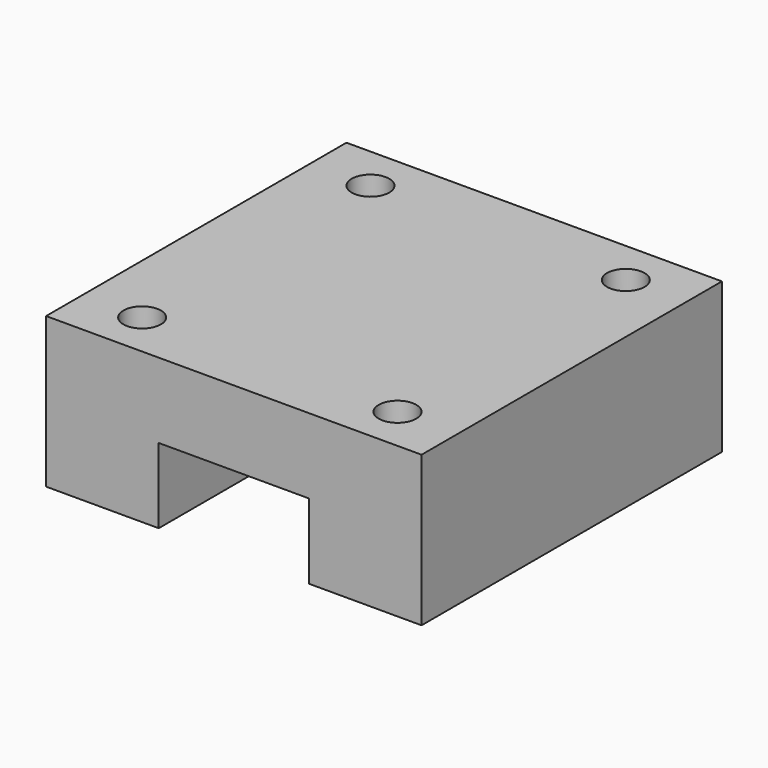
from build123d import *

# Parameters (mm, degrees)
F1_DEPTH = 25
F3_D     = 2.5
F3_DEPTH = 5
F3_TIP   = 0.7510757738


with BuildPart() as f1:
    # F0 (on Front) → F1 (new body)
    with BuildSketch(Plane.XZ):
        Polygon((-5, 0), (0, 0), (5, 0), (5, -5), (12.5, -5), (12.5, 5), (0, 5), (-12.5, 5), (-12.5, -5), (-5, -5), align=None)
    extrude(amount=F1_DEPTH)

    # F3
    with Locations(Plane.XY.offset(5)):
        with Locations((-8.5, -3), (8.5, -3), (-8.5, -22), (8.5, -22)):
            Hole(F3_D / 2, depth=F3_DEPTH)
            with Locations((0, 0, -(F3_DEPTH + F3_TIP / 2))):  # 118° drill point
                Cone(0, F3_D / 2, F3_TIP, mode=Mode.SUBTRACT)


solid = f1.part
